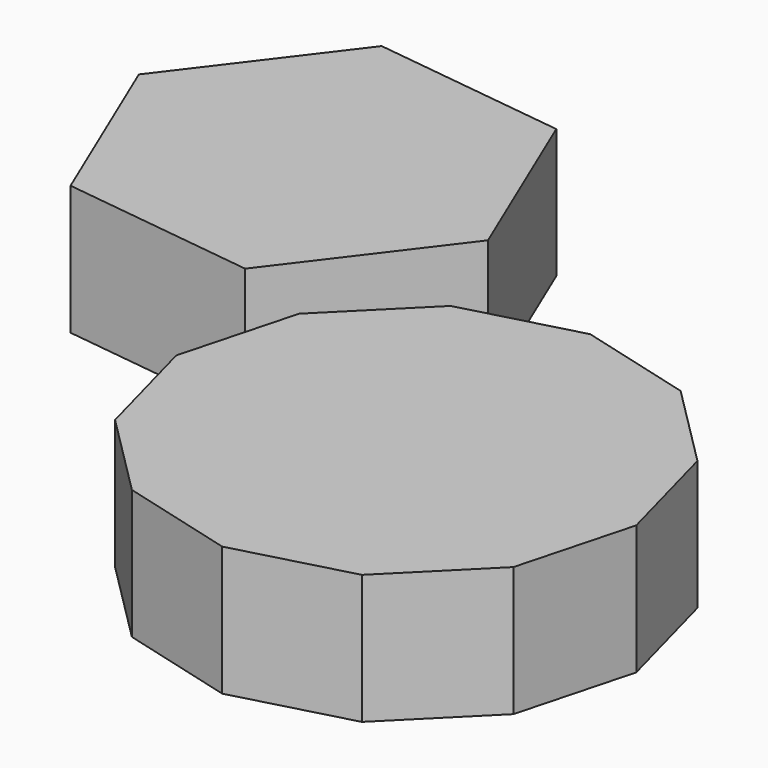
from build123d import *

# Parameters (mm, degrees)
F1_DEPTH = 28.79387


with BuildPart() as f1:
    # F0 (on Top) → F1 (new body)
    with BuildSketch(Plane.XY):
        Polygon((-8.374686, 25.575651), (-15.227661, 0), (-8.374686, -25.575651), (10.34799, -44.298327), (35.923641, -51.151302), (61.499292, -44.298327), (80.221968, -25.575651), (87.074943, 0), (80.221968, 25.575651), (61.499292, 44.298327), (35.923641, 51.151302), (10.34799, 44.298327), align=None)
        Polygon((-26.275756, 32.956574), (0, 67.622423), (-16.883628, 107.71082), (-60.043013, 113.133368), (-86.318769, 78.467518), (-69.43514, 38.379121), align=None)
    extrude(amount=F1_DEPTH)


solid = f1.part
